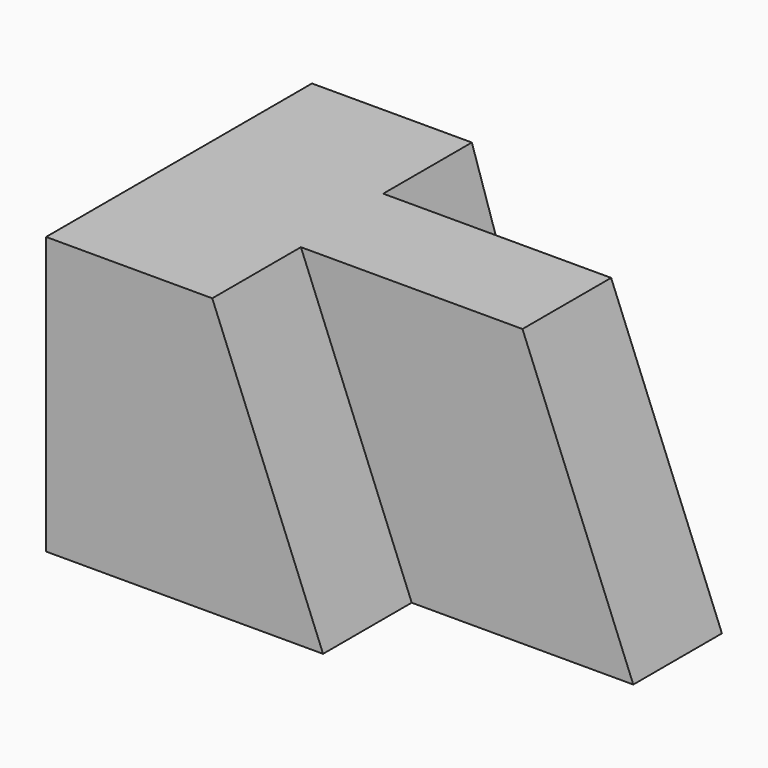
from build123d import *

# Parameters (mm, degrees)
F0_W     = 57.15
F0_H     = 31.75
F1_DEPTH = 38.1
F3_DEPTH = 12.7
F5_DEPTH = 25.4
F7_DEPTH = 12.7


with BuildPart() as f1:
    # F0 (on Front) → F1 (new body)
    with BuildSketch(Plane.XZ):
        with Locations((28.575, 15.875)):
            Rectangle(F0_W, F0_H)
    extrude(amount=F1_DEPTH)

    # F2 (on face) → F3 (cut)
    with BuildSketch(Plane.XZ.offset(38.1)):
        Polygon((57.15, 31.75), (19.05, 31.75), (31.75, 0), (57.15, 0), align=None)
    extrude(amount=-F3_DEPTH, mode=Mode.SUBTRACT)

    # F4 (on face) → F5 (cut)
    with BuildSketch(Plane.XZ.offset(25.4)):
        Polygon((57.15, 31.75), (44.45, 31.75), (57.15, 0), align=None)
    extrude(amount=-F5_DEPTH, mode=Mode.SUBTRACT)

    # F6 (on face) → F7 (cut)
    with BuildSketch(Plane(origin=(0, 0, 0), x_dir=(-1, 0, 0), z_dir=(0, 1, 0))):
        Polygon((-28.575, 0), (-18.325109, 31.75), (-44.45, 31.75), (-57.15, 0), align=None)
    extrude(amount=-F7_DEPTH, mode=Mode.SUBTRACT)


solid = f1.part
